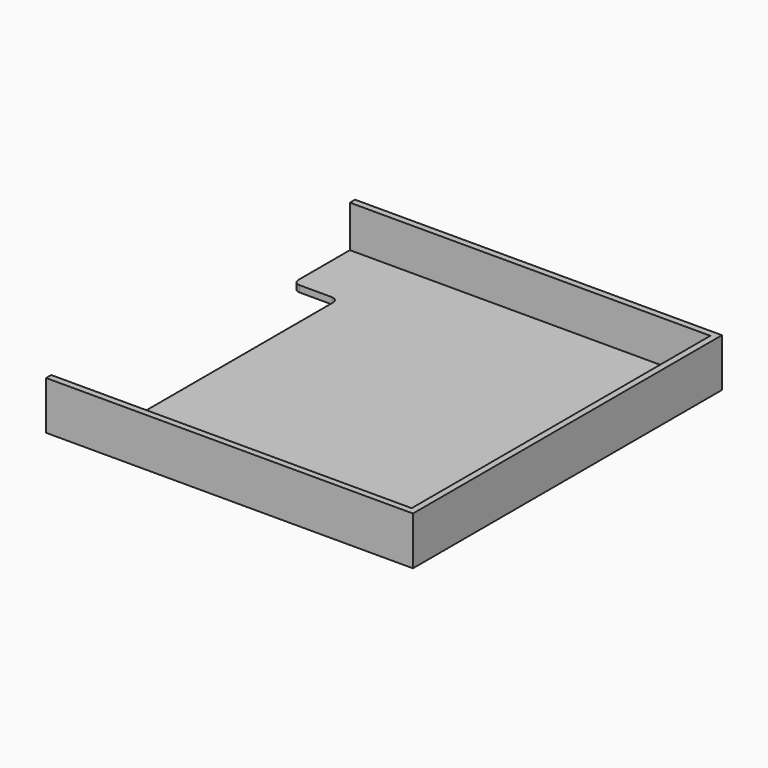
from build123d import *

# Parameters (mm, degrees)
BOX070_W     = 1.4
BOX070_H     = 8.6
BOX070_DEPTH = 0.2
FILLET012_R  = 0.2
BOX069_W     = 11.2
BOX069_H     = 11.6
BOX069_DEPTH = 1.3
BOX068_W     = 11.4
BOX068_H     = 12
BOX068_DEPTH = 1.5
FILLET013_R  = 0.2


with BuildPart() as fillet012:
    # Box070 → Box070 (new body)
    with BuildSketch(Plane(origin=(0, 1, 0), x_dir=(1, 0, 0), z_dir=(0, 0, 1))):
        with Locations((0.7, 4.3)):
            Rectangle(BOX070_W, BOX070_H)
    extrude(amount=BOX070_DEPTH)

    # Fillet012
    fillet012_edges = [fillet012.edges().sort_by_distance(p)[0] for p in [
        (1.4, 1, 0.1),
        (1.4, 9.6, 0.1),
    ]]
    fillet(fillet012_edges, radius=FILLET012_R)


with BuildPart() as fusion052:
    # Box069 → Box069 (new body)
    with BuildSketch(Plane(origin=(0, 0.2, 0.2), x_dir=(1, 0, 0), z_dir=(0, 0, 1))):
        with Locations((5.6, 5.8)):
            Rectangle(BOX069_W, BOX069_H)
    extrude(amount=BOX069_DEPTH)

    # Fusion052: union Fillet012
    add(fillet012.part)


with BuildPart() as sd_card_slot:
    # Box068 → Box068 (new body)
    with BuildSketch(Plane.XY):
        with Locations((5.7, 6)):
            Rectangle(BOX068_W, BOX068_H)
    extrude(amount=BOX068_DEPTH)

    # Cut017: cut Fusion052
    add(fusion052.part, mode=Mode.SUBTRACT)

    # Fillet013
    fillet013_edges = [sd_card_slot.edges().sort_by_distance(p)[0] for p in [
        (0, 1, 0.1),
        (0, 9.6, 0.1),
    ]]
    fillet(fillet013_edges, radius=FILLET013_R)


with BuildPart() as sd_card_slot_1:
    # Fillet013 placement: moved
    add(sd_card_slot.part.moved(Location((1.7, 22, -1.5))))


solid = sd_card_slot_1.part
